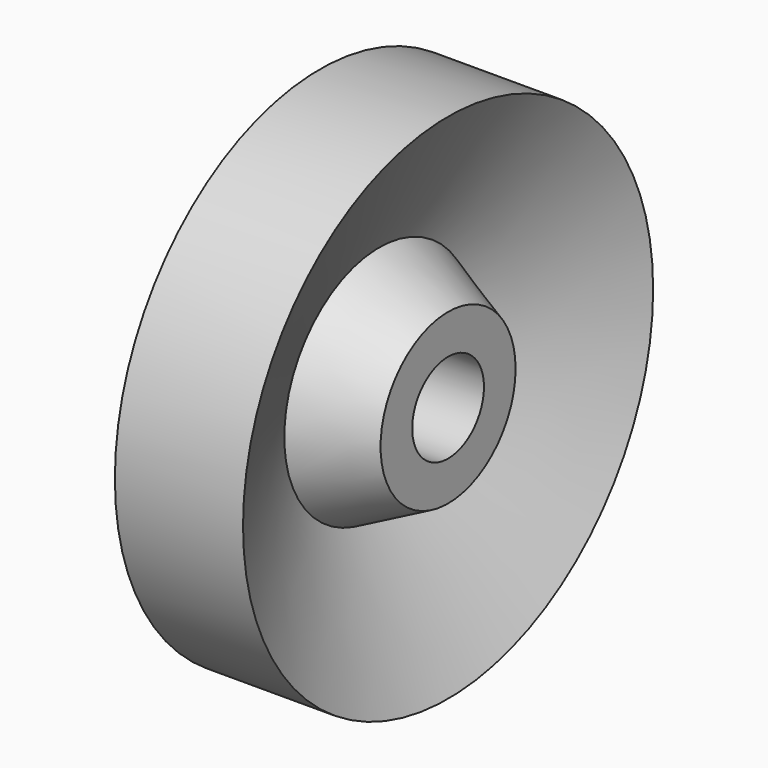
from build123d import *

# Parameters (mm, degrees)
F2_R     = 1.75
F3_DEPTH = 4


with BuildPart() as f1:
    # F0 (on Top) → F1 (revolve)
    with BuildSketch(Plane.XY):
        with BuildLine():
            Line((5, 10), (0, 10))
            ThreePointArc((0, 10), (-1.041182, 5.043677), (-1.5, 0))
            Line((-1.5, 0), (5, 0))
            Line((5, 0), (5, 3.291796))
            Line((5, 3.291796), (2.316718, 4.633437))
            Line((2.316718, 4.633437), (5, 10))
        make_face()
    revolve(axis=Axis((1.620585, 0, 0), (1, 0, 0)))

    # F2 (on face) → F3 (cut)
    with BuildSketch(Plane.YZ.offset(5)):
        Circle(F2_R)
    extrude(amount=-F3_DEPTH, mode=Mode.SUBTRACT)


solid = f1.part
